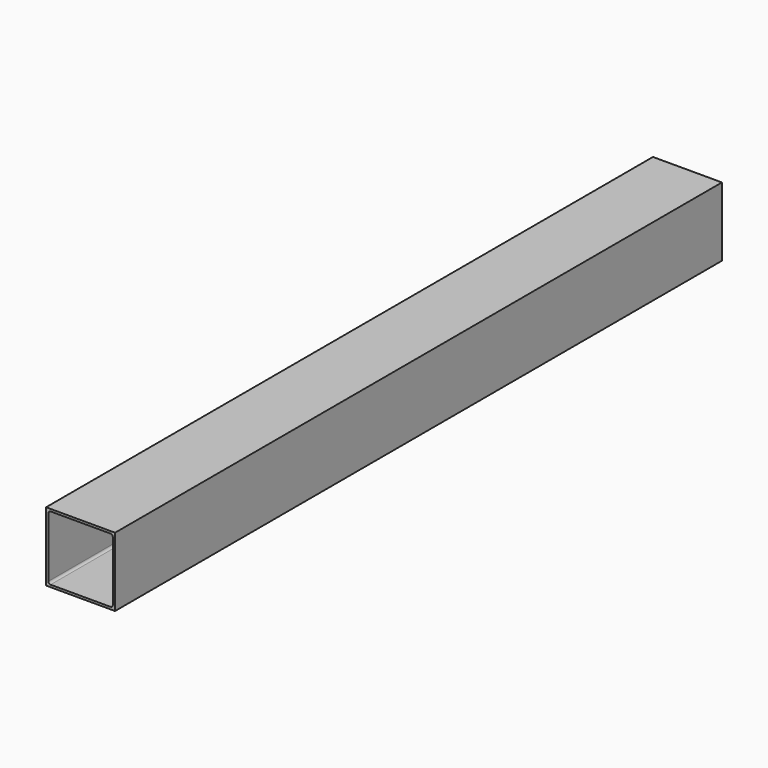
from build123d import *

# Parameters (mm, degrees)
F0_W     = 50.8
F0_H     = 50.8
F1_DEPTH = 558.8


with BuildPart() as f1:
    # F0 (on Front) → F1 (new body)
    with BuildSketch(Plane.XZ):
        with Locations((0, -1.849517)):
            Rectangle(F0_W, F0_H)
        with BuildLine():
            Line((-22.098, 21.899483), (22.098, 21.899483))
            ThreePointArc((22.098, 21.899483), (23.265433, 21.415916), (23.749, 20.248483))
            Line((23.749, 20.248483), (23.749, -23.947517))
            ThreePointArc((23.749, -23.947517), (23.265433, -25.114951), (22.098, -25.598517))
            Line((22.098, -25.598517), (-22.098, -25.598517))
            ThreePointArc((-22.098, -25.598517), (-23.265433, -25.114951), (-23.749, -23.947517))
            Line((-23.749, -23.947517), (-23.749, 20.248483))
            ThreePointArc((-23.749, 20.248483), (-23.265433, 21.415916), (-22.098, 21.899483))
        make_face(mode=Mode.SUBTRACT)
    extrude(amount=F1_DEPTH)


solid = f1.part
